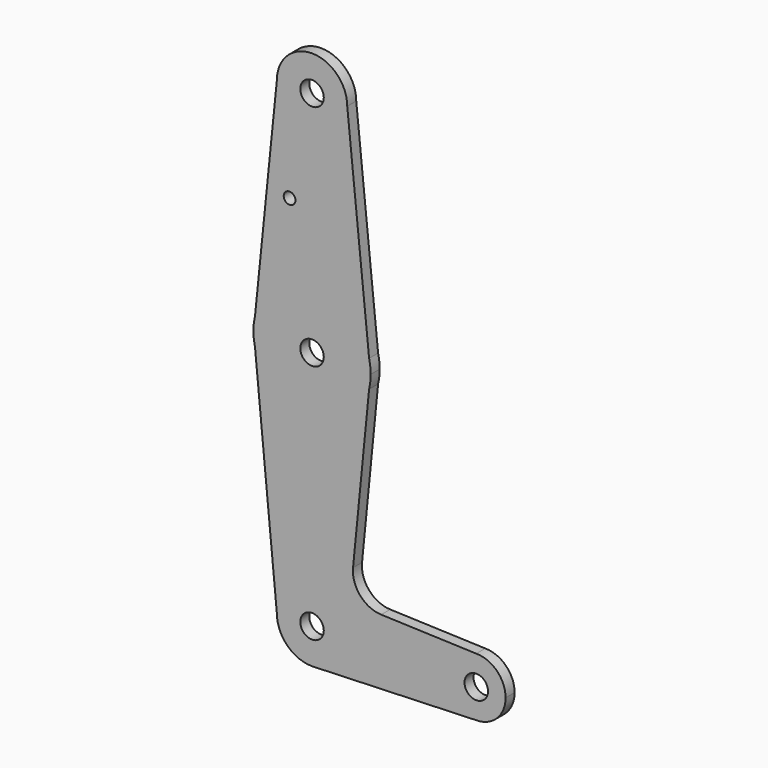
from build123d import *

# Parameters (mm, degrees)
F0_R     = 1.5875
F0_R_2   = 3.175
F1_DEPTH = 3.048


with BuildPart() as f1:
    # F0 (on Front) → F1 (new body)
    with BuildSketch(Plane.XZ):
        with BuildLine():
            Line((15.442731, 36.907912), (9.525, 95.04018))
            ThreePointArc((9.525, 95.04018), (0, 85.51518), (-9.525, 95.04018))
            Line((-9.525, 95.04018), (-15.442731, 36.907912))
            ThreePointArc((-15.442731, 36.907912), (0, 49.103551), (15.442731, 36.907912))
        make_face()
        with Locations((-6.082257, 68.06538)):
            Circle(F0_R, mode=Mode.SUBTRACT)
        with BuildLine():
            ThreePointArc((-9.525, 95.04018), (0, 85.51518), (9.525, 95.04018))
            ThreePointArc((9.525, 95.04018), (0, 104.56518), (-9.525, 95.04018))
        make_face()
        with Locations((0, 95.04018)):
            Circle(F0_R_2, mode=Mode.SUBTRACT)
        with BuildLine():
            ThreePointArc((15.875, 33.228551), (15.766562, 35.080885), (15.442731, 36.907912))
            ThreePointArc((15.442731, 36.907912), (0, 49.103551), (-15.442731, 36.907912))
            ThreePointArc((-15.442731, 36.907912), (-15.875, 33.228551), (-15.442731, 29.549191))
            ThreePointArc((-15.442731, 29.549191), (0, 17.353551), (15.442731, 29.549191))
            ThreePointArc((15.442731, 29.549191), (15.766562, 31.376218), (15.875, 33.228551))
        make_face()
        with Locations((0, 33.228551)):
            Circle(F0_R_2, mode=Mode.SUBTRACT)
        with BuildLine():
            ThreePointArc((9.525, -31.95982), (0, -22.43482), (-9.525, -31.95982))
            ThreePointArc((-9.525, -31.95982), (-6.735192, -38.695012), (0, -41.48482))
            Line((0, -41.48482), (0.67949, -41.460552))
            ThreePointArc((0.67949, -41.460552), (6.97129, -38.450331), (9.525, -31.95982))
        make_face()
        with Locations((0, -31.95982)):
            Circle(F0_R_2, mode=Mode.SUBTRACT)
        with BuildLine():
            ThreePointArc((52.3875, -31.95982), (50.06266, -26.347159), (44.45, -24.02232))
            ThreePointArc((44.45, -24.02232), (36.5125, -31.95982), (44.45, -39.89732))
            ThreePointArc((44.45, -39.89732), (50.06266, -37.57248), (52.3875, -31.95982))
        make_face()
        with Locations((44.45, -31.95982)):
            Circle(F0_R_2, mode=Mode.SUBTRACT)
        with BuildLine():
            ThreePointArc((15.442731, 29.549191), (0, 17.353551), (-15.442731, 29.549191))
            Line((-15.442731, 29.549191), (-9.525, -31.95982))
            ThreePointArc((-9.525, -31.95982), (0, -22.43482), (9.525, -31.95982))
            ThreePointArc((9.525, -31.95982), (6.97129, -38.450331), (0.67949, -41.460552))
            Line((0.67949, -41.460552), (44.45, -39.89732))
            ThreePointArc((44.45, -39.89732), (36.5125, -31.95982), (44.45, -24.02232))
            Line((44.45, -24.02232), (18.711782, -23.103097))
            ThreePointArc((18.711782, -23.103097), (13.018458, -20.39405), (11.096139, -14.389255))
            Line((11.096139, -14.389255), (15.442731, 29.549191))
        make_face()
    extrude(amount=F1_DEPTH)


solid = f1.part
